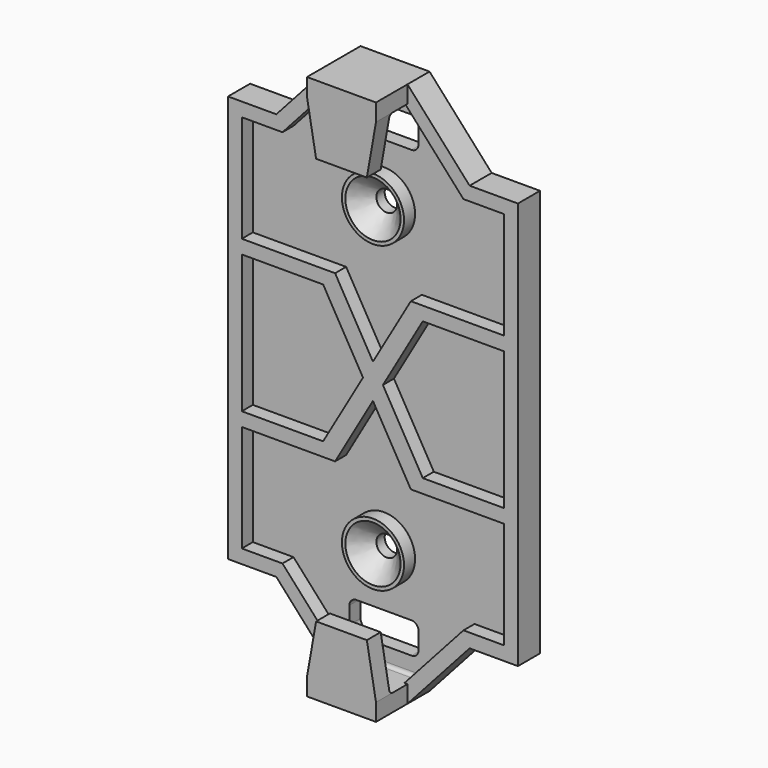
from build123d import *

# Parameters (mm, degrees)
F1_DEPTH  = 4
F2_W      = 10
F2_H      = 2.5
F3_DEPTH  = 5.7
F5_DEPTH  = 2.5
F6_R      = 1.5
F7_DEPTH  = 4
F9_DEPTH  = 2
F10_R     = 4.5
F10_R_2   = 1.5
F11_DEPTH = 2
F13_DEPTH = 2
F15_DEPTH = 2
F16_R     = 1.375
F17_DEPTH = 0.8
F18_SIZE  = 2.5
F19_W     = 10
F19_H     = 4.5
F20_DEPTH = 2
F21_R     = 1
F22_R     = 0.5
F23_R     = 0.5


with BuildPart() as f1:
    # F0 (on Front) → F1 (new body)
    with BuildSketch(Plane.XZ):
        Polygon((-14, 29.5), (-21, 29.5), (-21, -29.5), (-14, -29.5), (-5, -39.5), (5, -39.5), (14, -29.5), (21, -29.5), (21, 29.5), (14, 29.5), (5, 39.5), (-5, 39.5), align=None)
    extrude(amount=-F1_DEPTH)

    # F2 (on face) → F3 (join)
    with BuildSketch(Plane.XZ):
        with Locations((0, 38.25)):
            Rectangle(F2_W, F2_H)
        with Locations((0, -38.25)):
            Rectangle(F2_W, F2_H)
    extrude(amount=F3_DEPTH)

    # F4 (on face) → F5 (join)
    with BuildSketch(Plane.XZ.offset(5.7)):
        Polygon((5, 39.5), (-5, 39.5), (-5, 37), (-3.677548, 29.5), (3.677548, 29.5), (5, 37), align=None)
        Polygon((3.677548, -29.5), (-3.677548, -29.5), (-5, -37), (-5, -39.5), (5, -39.5), (5, -37), align=None)
    extrude(amount=-F5_DEPTH)

    # F6 (on face) → F7 (cut, through all)
    with BuildSketch(Plane.XZ):
        with Locations((0, 22)):
            Circle(F6_R)
        with Locations((0, -22)):
            Circle(F6_R)
    extrude(amount=-F7_DEPTH, mode=Mode.SUBTRACT)

    # F8 (on face) → F9 (cut)
    with BuildSketch(Plane.XZ):
        Polygon((-19, -27.5), (-13.109275, -27.5), (-6.359275, -35), (6.359275, -35), (13.109275, -27.5), (19, -27.5), (19, 27.5), (13.109275, 27.5), (6.359275, 35), (-6.359275, 35), (-13.109275, 27.5), (-19, 27.5), align=None)
    extrude(amount=-F9_DEPTH, mode=Mode.SUBTRACT)

    # F10 (on face) → F11 (join, through all)
    with BuildSketch(Plane.XZ.offset(-2)):
        with Locations((0, -22)):
            Circle(F10_R)
        with Locations((0, -22)):
            Circle(F10_R_2, mode=Mode.SUBTRACT)
        with Locations((0, 22)):
            Circle(F10_R)
        with Locations((0, 22)):
            Circle(F10_R_2, mode=Mode.SUBTRACT)
    extrude(amount=F11_DEPTH)

    # F12 (on face) → F13 (cut, through all)
    with BuildSketch(Plane.XZ):
        Polygon((-4.559275, -37), (4.559275, -37), (6.359275, -35), (5, -35), (-5, -35), (-6.359275, -35), align=None)
        Polygon((4.559275, 37), (-4.559275, 37), (-6.359275, 35), (6.359275, 35), align=None)
    extrude(amount=-F13_DEPTH, mode=Mode.SUBTRACT)

    # F14 (on face) → F15 (join, through all)
    with BuildSketch(Plane.XZ.offset(-2)):
        Polygon((5.484828, -12), (19, -12), (19, -10), (7.216878, -10), (1.443376, 0), (7.216878, 10), (19, 10), (19, 12), (5.484828, 12), (0, 2.5), (-5.484828, 12), (-19, 12), (-19, 10), (-7.216878, 10), (-1.443376, 0), (-7.216878, -10), (-19, -10), (-19, -12), (-5.484828, -12), (0, -2.5), align=None)
    extrude(amount=F15_DEPTH)

    # F16 (on face) → F17 (join)
    with BuildSketch(Plane(origin=(0, -3.2, 0), x_dir=(-1, 0, 0), z_dir=(0, 1, 0))):
        with Locations((0, -32)):
            Circle(F16_R)
        with Locations((0, 32)):
            Circle(F16_R)
    extrude(amount=F17_DEPTH)

    # F18
    f18_edges = [f1.edges().sort_by_distance(p)[0] for p in [
        (-1.5, 0, -22),
        (-1.5, 0, 22),
    ]]
    chamfer(f18_edges, length=F18_SIZE)

    # F19 (on face) → F20 (cut, through all)
    with BuildSketch(Plane(origin=(0, 4, 0), x_dir=(-1, 0, 0), z_dir=(0, 1, 0))):
        with Locations((0, 32.25)):
            Rectangle(F19_W, F19_H)
        with Locations((0, -32.25)):
            Rectangle(F19_W, F19_H)
    extrude(amount=-F20_DEPTH, mode=Mode.SUBTRACT)

    # F21
    f21_edges = [f1.edges().sort_by_distance(p)[0] for p in [
        (-5, 3, 34.5),
        (5, 3, 30),
        (5, 3, 34.5),
        (-5, 3, 30),
        (5, 3, -34.5),
        (5, 3, -30),
        (-5, 3, -30),
        (-5, 3, -34.5),
    ]]
    fillet(f21_edges, radius=F21_R)

    # F22
    f22_edges = [f1.edges().sort_by_distance(p)[0] for p in [
        (1.375, -2.4, -32),
        (1.375, -2.4, 32),
    ]]
    fillet(f22_edges, radius=F22_R)

    # F23
    f23_edges = [f1.edges().sort_by_distance(p)[0] for p in [
        (0, 2, 37),
        (0, 2, -37),
        (0, -3.2, 37),
        (0, -3.2, -37),
    ]]
    fillet(f23_edges, radius=F23_R)


solid = f1.part
